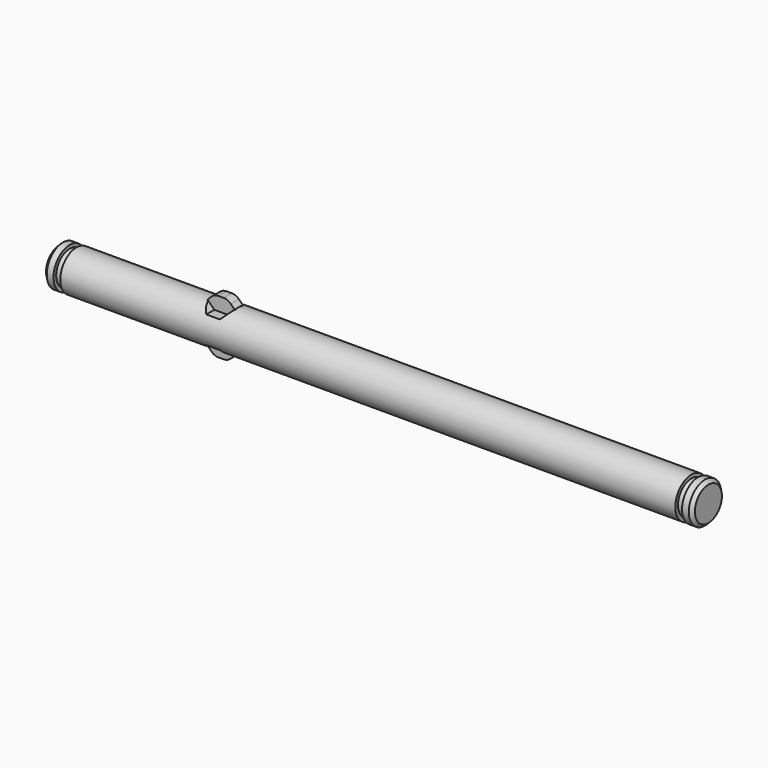
from build123d import *

# Parameters (mm, degrees)
F0_R          = 3
F1_DEPTH      = 96
F2_SIZE       = 0.5
F3_W          = 1
F3_H          = 1
F6_DEPTH      = 3.001
F6_DEPTH_BACK = 25
F8_DEPTH      = 0.75
F8_DEPTH_BACK = 0.75
F9_R          = 1.5


with BuildPart() as f1:
    # F0 (on Right) → F1 (new body)
    with BuildSketch(Plane.YZ):
        Circle(F0_R)
    extrude(amount=F1_DEPTH)

    # F2
    f2_edges = [f1.edges().sort_by_distance(p)[0] for p in [
        (0, -3, 0),
        (96, -3, 0),
    ]]
    chamfer(f2_edges, length=F2_SIZE)

    # F3 (on Front) → F4 (revolve, cut)
    with BuildSketch(Plane.XZ):
        with Locations((2, 3)):
            Rectangle(F3_W, F3_H)
        with Locations((94, 3)):
            Rectangle(F3_W, F3_H)
    revolve(axis=Axis((48.1495447457, 0, 0), (1, 0, 0)), mode=Mode.SUBTRACT)

    # F5 (on Front) → F6 (cut, two sides)
    with BuildSketch(Plane.XZ) as f6_sk:
        Polygon((26.5, 4), (22.5, 4), (22.5, 3), (23.5, 2), (25.5, 2), (26.5, 3), align=None)
        Polygon((26.5, -4), (26.5, -3), (25.5, -2), (23.5, -2), (22.5, -3), (22.5, -4), align=None)
    extrude(amount=-F6_DEPTH, mode=Mode.SUBTRACT)
    extrude(f6_sk.sketch, amount=F6_DEPTH_BACK, mode=Mode.SUBTRACT)

    # F7 (on Front) → F8 (join, two sides)
    with BuildSketch(Plane.XZ) as f8_sk:
        Polygon((22.5, 3), (22.5, 2), (26.5, 2), (26.5, 3), (25.5, 4), (23.5, 4), align=None)
        Polygon((22.5, -2), (22.5, -3), (23.5, -4), (25.5, -4), (26.5, -3), (26.5, -2), align=None)
    extrude(amount=F8_DEPTH)
    extrude(f8_sk.sketch, amount=-F8_DEPTH_BACK)

    # F9
    f9_edges = [f1.edges().sort_by_distance(p)[0] for p in [
        (23.5, 0, -4),
        (25.5, 0, -4),
        (23.5, 0, 4),
        (25.5, 0, 4),
    ]]
    fillet(f9_edges, radius=F9_R)


solid = f1.part
